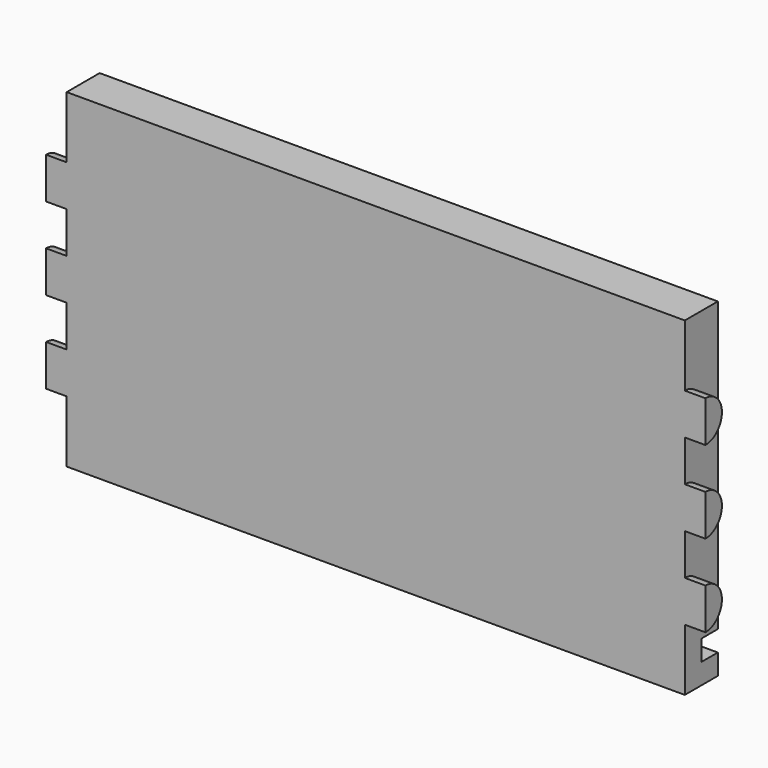
from build123d import *

# Parameters (mm, degrees)
F0_W     = 190.5
F0_H     = 88.9
F0_H_2   = 6.35
F1_DEPTH = 12.7
F2_DEPTH = 6.35
F4_DEPTH = 6.35
F6_DEPTH = 6.35


with BuildPart() as f1:
    # F0 (on Front) → F1 (new body)
    with BuildSketch(Plane.XZ):
        Polygon((103.884577, -50.8), (103.884577, 50.8), (97.534577, 50.8), (97.534577, -38.1), (97.534577, -44.45), (97.534577, -50.8), align=None)
        with Locations((2.284577, 6.35)):
            Rectangle(F0_W, F0_H)
        Polygon((-92.965423, -38.1), (-92.965423, 50.8), (-99.315423, 50.8), (-99.315423, -50.8), (-92.965423, -50.8), (-92.965423, -44.45), align=None)
        with Locations((2.284577, -47.625)):
            Rectangle(F0_W, F0_H_2)
        with Locations((2.284577, -41.275)):
            Rectangle(F0_W, F0_H_2)
    extrude(amount=F1_DEPTH)

    # F0 (on Front) → F2 (cut)
    with BuildSketch(Plane.XZ):
        with Locations((2.284577, -41.275)):
            Rectangle(F0_W, F0_H_2)
    extrude(amount=F2_DEPTH, mode=Mode.SUBTRACT)

    # F3 (on face) → F4 (cut)
    with BuildSketch(Plane(origin=(-99.315423, 0, 0), x_dir=(0, -1, 0), z_dir=(-1, 0, 0))):
        with BuildLine():
            ThreePointArc((12.7, 19.05), (6.35, 25.4), (12.7, 31.75))
            Line((12.7, 31.75), (12.7, 50.8))
            Line((12.7, 50.8), (0, 50.8))
            Line((0, 50.8), (0, -50.8))
            Line((0, -50.8), (12.7, -50.8))
            Line((12.7, -50.8), (12.7, -31.75))
            ThreePointArc((12.7, -31.75), (6.35, -25.4), (12.7, -19.05))
            Line((12.7, -19.05), (12.7, -6.35))
            ThreePointArc((12.7, -6.35), (6.35, 0), (12.7, 6.35))
            Line((12.7, 6.35), (12.7, 19.05))
        make_face()
    extrude(amount=-F4_DEPTH, mode=Mode.SUBTRACT)

    # F5 (on face) → F6 (cut)
    with BuildSketch(Plane.YZ.offset(103.884577)):
        with BuildLine():
            ThreePointArc((-12.7, 31.75), (-6.35, 25.4), (-12.7, 19.05))
            Line((-12.7, 19.05), (-12.7, 6.35))
            ThreePointArc((-12.7, 6.35), (-6.35, 0), (-12.7, -6.35))
            Line((-12.7, -6.35), (-12.7, -19.05))
            ThreePointArc((-12.7, -19.05), (-6.35, -25.4), (-12.7, -31.75))
            Line((-12.7, -31.75), (-12.7, -50.8))
            Line((-12.7, -50.8), (0, -50.8))
            Line((0, -50.8), (0, 50.8))
            Line((0, 50.8), (-12.7, 50.8))
            Line((-12.7, 50.8), (-12.7, 31.75))
        make_face()
    extrude(amount=-F6_DEPTH, mode=Mode.SUBTRACT)


solid = f1.part
